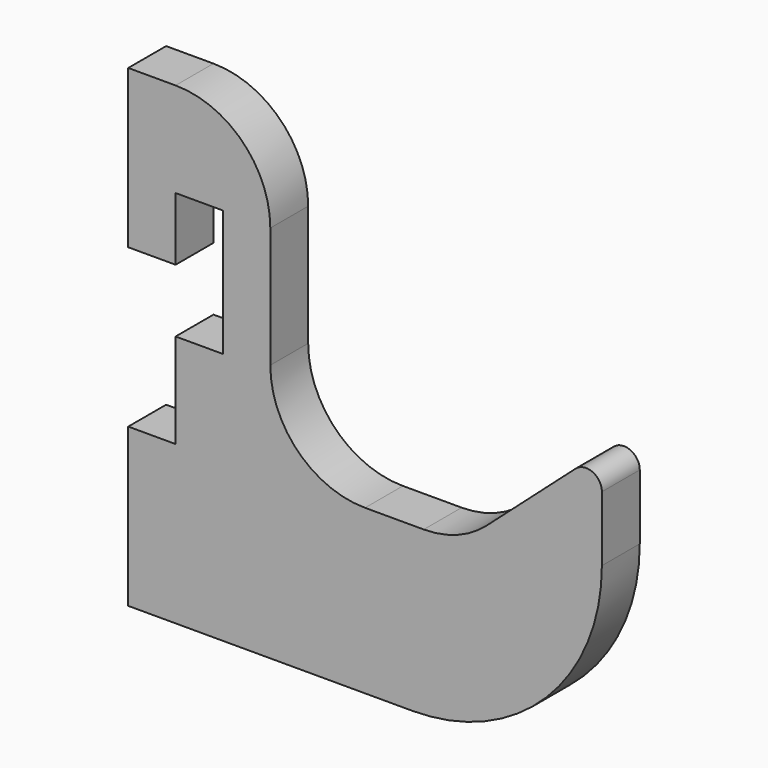
from build123d import *

# Parameters (mm, degrees)
F1_DEPTH = 3


with BuildPart() as f1:
    # F0 (on Front) → F1 (new body)
    with BuildSketch(Plane.XZ):
        with BuildLine():
            Line((-9.316623, -4.437705), (-9.316623, -14.437705))
            Line((-9.316623, -14.437705), (8.688183, -14.437705))
            ThreePointArc((8.688183, -14.437705), (17.173464, -10.922987), (20.688183, -2.437705))
            Line((20.688183, -2.437705), (20.688183, 1.684763))
            ThreePointArc((20.688183, 1.684763), (20.09796, 2.596949), (19.024017, 2.432348))
            Line((19.024017, 2.432348), (13.388086, -2.574695))
            ThreePointArc((13.388086, -2.574695), (11.534632, -3.697795), (9.403091, -4.089183))
            Line((9.403091, -4.089183), (5.683377, -4.089183))
            ThreePointArc((5.683377, -4.089183), (1.440737, -2.331823), (-0.316623, 1.910817))
            Line((-0.316623, 1.910817), (-0.316623, 9.562295))
            ThreePointArc((-0.316623, 9.562295), (-2.073982, 13.804935), (-6.316623, 15.562295))
            Line((-6.316623, 15.562295), (-9.316623, 15.562295))
            Line((-9.316623, 15.562295), (-9.316623, 5.562295))
            Line((-9.316623, 5.562295), (-6.316623, 5.562295))
            Line((-6.316623, 5.562295), (-6.316623, 9.562295))
            Line((-6.316623, 9.562295), (-3.316623, 9.562295))
            Line((-3.316623, 9.562295), (-3.316623, 1.562295))
            Line((-3.316623, 1.562295), (-6.316623, 1.562295))
            Line((-6.316623, 1.562295), (-6.316623, -4.437705))
            Line((-6.316623, -4.437705), (-9.316623, -4.437705))
        make_face()
    extrude(amount=F1_DEPTH)


solid = f1.part
